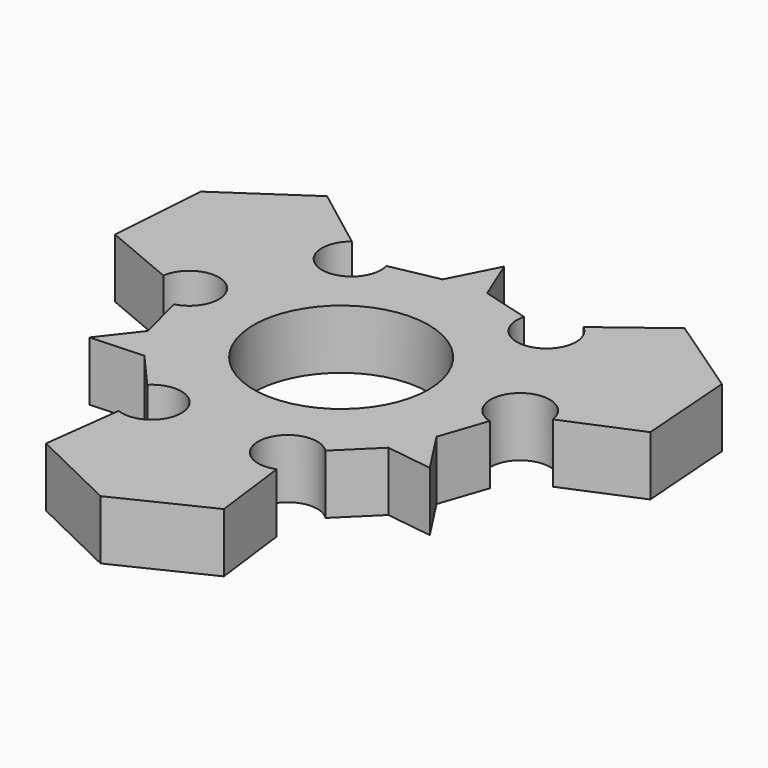
from build123d import *

# Parameters (mm, degrees)
F0_R     = 13.97
F0_R_2   = 11.25
F1_DEPTH = 7.62


with BuildPart() as f1:
    # F0 (on Top) → F1 (new body)
    with BuildSketch(Plane.XY):
        with BuildLine():
            ThreePointArc((-11.454721, -16.837749), (-5.015581, -18.739809), (-10.16, -23.054355))
            Line((-10.16, -23.054355), (-11.43, -33.134668))
            Line((-11.43, -33.134668), (0, -38.67047))
            Line((0, -38.67047), (11.43, -33.134668))
            Line((11.43, -33.134668), (10.16, -23.054355))
            ThreePointArc((10.16, -23.054355), (5.015581, -18.739809), (11.454721, -16.837749))
            Line((11.454721, -16.837749), (15.987778, -12.390964))
            Line((15.987778, -12.390964), (21.969179, -13.217094))
            Line((21.969179, -13.217094), (18.275644, -7.516754))
            Line((18.275644, -7.516754), (20.309279, -1.501205))
            ThreePointArc((20.309279, -1.501205), (18.736942, 5.026284), (25.045657, 2.72836))
            Line((25.045657, 2.72836), (34.410464, 6.668664))
            Line((34.410464, 6.668664), (33.489609, 19.335235))
            Line((33.489609, 19.335235), (22.980464, 26.466004))
            Line((22.980464, 26.466004), (14.885657, 20.325996))
            ThreePointArc((14.885657, 20.325996), (13.72136, 13.713525), (8.854558, 18.338953))
            Line((8.854558, 18.338953), (2.737001, 20.041303))
            Line((2.737001, 20.041303), (0.46175, 25.634414))
            Line((0.46175, 25.634414), (-2.628122, 19.585548))
            Line((-2.628122, 19.585548), (-8.854558, 18.338953))
            ThreePointArc((-8.854558, 18.338953), (-13.72136, 13.713525), (-14.885657, 20.325996))
            Line((-14.885657, 20.325996), (-22.980464, 26.466004))
            Line((-22.980464, 26.466004), (-33.489609, 19.335235))
            Line((-33.489609, 19.335235), (-34.410464, 6.668664))
            Line((-34.410464, 6.668664), (-25.045657, 2.72836))
            ThreePointArc((-25.045657, 2.72836), (-18.736942, 5.026284), (-20.309279, -1.501205))
            Line((-20.309279, -1.501205), (-18.724778, -7.65034))
            Line((-18.724778, -7.65034), (-22.430929, -12.41732))
            Line((-22.430929, -12.41732), (-15.647521, -12.068795))
            Line((-15.647521, -12.068795), (-11.454721, -16.837749))
        make_face()
        Circle(F0_R, mode=Mode.SUBTRACT)
        Circle(F0_R)
        Circle(F0_R_2, mode=Mode.SUBTRACT)
    extrude(amount=F1_DEPTH)


solid = f1.part
